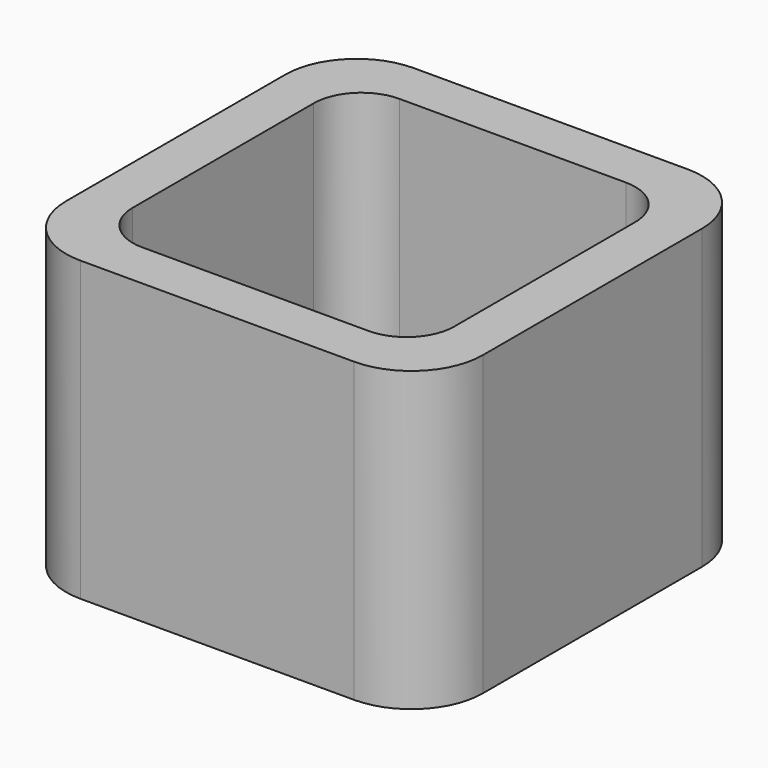
from build123d import *

# Parameters (mm, degrees)
EXTRUDE_DEPTH = 50


with BuildPart() as part:
    # Sketch → Extrude (new body)
    with BuildSketch(Plane.XY):
        with BuildLine():
            Line((-23, 35), (23, 35))
            ThreePointArc((35, 23), (31.485281, 31.485281), (23, 35))
            Line((35, 23), (35, -23))
            ThreePointArc((23, -35), (31.485281, -31.485281), (35, -23))
            Line((23, -35), (-23, -35))
            ThreePointArc((-35, -23), (-31.485281, -31.485281), (-23, -35))
            Line((-35, -23), (-35, 23))
            ThreePointArc((-23, 35), (-31.485281, 31.485281), (-35, 23))
        make_face()
        with BuildLine():
            Line((-19, 27), (19, 27))
            ThreePointArc((27, 19), (24.656854, 24.656854), (19, 27))
            Line((27, 19), (27, -19))
            ThreePointArc((19, -27), (24.656854, -24.656854), (27, -19))
            Line((19, -27), (-19, -27))
            ThreePointArc((-27, -19), (-24.656854, -24.656854), (-19, -27))
            Line((-27, -19), (-27, 19))
            ThreePointArc((-19, 27), (-24.656854, 24.656854), (-27, 19))
        make_face(mode=Mode.SUBTRACT)
    extrude(amount=EXTRUDE_DEPTH)


solid = part.part
